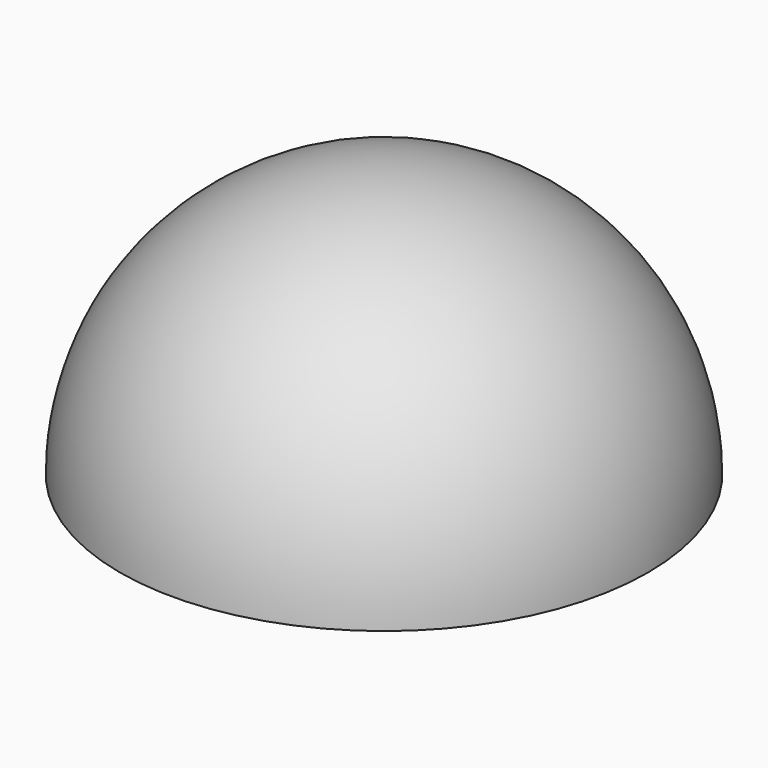
from build123d import *

# Parameters (mm, degrees)
F1_ANGLE = 180


with BuildPart() as f1:
    # F0 (on Top) → F1 (revolve)
    with BuildSketch(Plane.XY):
        with BuildLine():
            ThreePointArc((-240, 0), (0, 240), (240, 0))
            Line((240, 0), (250, 0))
            ThreePointArc((250, 0), (0, 250), (-250, 0))
            Line((-250, 0), (-240, 0))
        make_face()
    revolve(axis=Axis((-245, 0, 0), (1, 0, 0)), revolution_arc=F1_ANGLE)


solid = f1.part
